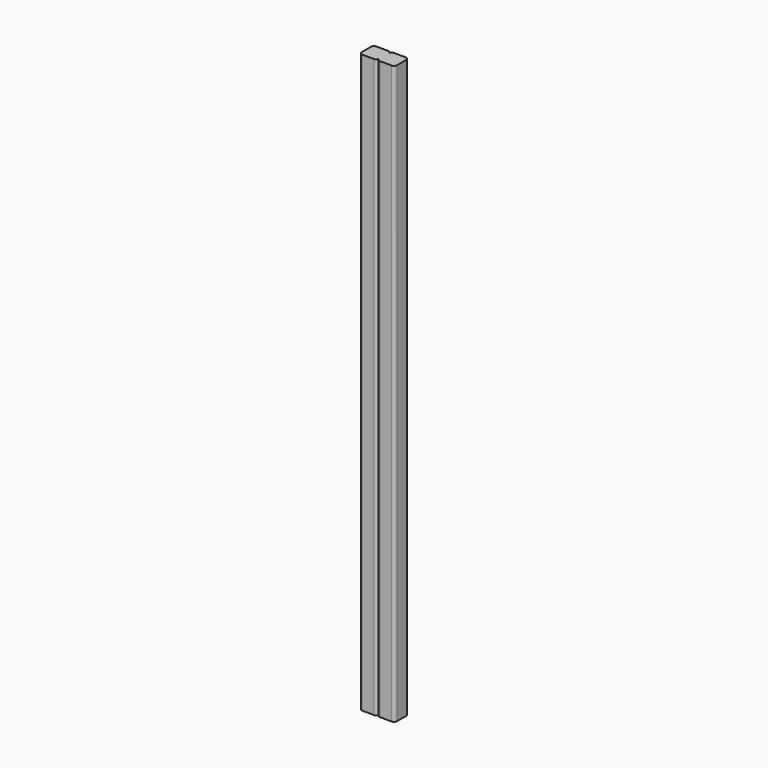
from build123d import *

# Parameters (mm, degrees)
F1_DEPTH = 1244.6


with BuildPart() as f1:
    # F0 (on Top) → F1 (new body)
    with BuildSketch(Plane.XY):
        with BuildLine():
            ThreePointArc((0, 12.596164), (-1.859872, 17.086292), (-6.35, 18.946164))
            Line((-6.35, 18.946164), (-31.75, 18.946164))
            ThreePointArc((-31.75, 18.946164), (-36.240128, 17.086292), (-38.1, 12.596164))
            Line((-38.1, 12.596164), (-38.1, -12.803836))
            ThreePointArc((-38.1, -12.803836), (-36.240128, -17.293964), (-31.75, -19.153836))
            Line((-31.75, -19.153836), (-6.35, -19.153836))
            ThreePointArc((-6.35, -19.153836), (-1.859872, -17.293964), (0, -12.803836))
            Line((0, -12.803836), (0, -12.7))
            Line((0, -12.7), (0, 12.596164))
        make_face()
        with BuildLine():
            Line((0, 12.7), (0, 12.596164))
            Line((0, 12.596164), (0, -12.7))
            ThreePointArc((0, -12.7), (1.859872, -17.190128), (6.35, -19.05))
            Line((6.35, -19.05), (31.75, -19.05))
            ThreePointArc((31.75, -19.05), (36.240128, -17.190128), (38.1, -12.7))
            Line((38.1, -12.7), (38.1, 12.7))
            ThreePointArc((38.1, 12.7), (36.240128, 17.190128), (31.75, 19.05))
            Line((31.75, 19.05), (6.35, 19.05))
            ThreePointArc((6.35, 19.05), (1.859872, 17.190128), (0, 12.7))
        make_face()
    extrude(amount=F1_DEPTH)


solid = f1.part
